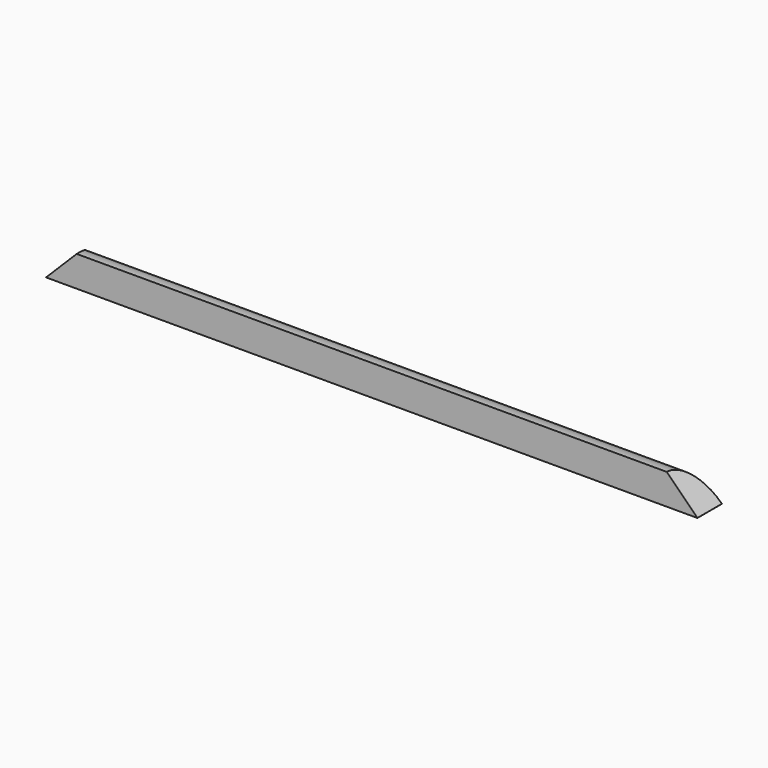
from build123d import *

# Parameters (mm, degrees)
SKETCH002_W     = 170
SKETCH002_H     = 8
PAD002_DEPTH    = 4
CHAMFER001_SIZE = 7.99
FILLET001_R     = 7.99


with BuildPart() as part:
    # Sketch002 → Pad002 (new body, symmetric)
    with BuildSketch(Plane.XZ):
        Rectangle(SKETCH002_W, SKETCH002_H)
    extrude(amount=PAD002_DEPTH, both=True)

    # Chamfer001
    chamfer001_edges = [part.edges().sort_by_distance(p)[0] for p in [
        (85, 0, 4),
        (-85, 0, 4),
    ]]
    chamfer(chamfer001_edges, length=CHAMFER001_SIZE)

    # Fillet001
    fillet001_edges = [part.edges().sort_by_distance(p)[0] for p in [
        (0, 4, 4),
    ]]
    fillet(fillet001_edges, radius=FILLET001_R)


solid = part.part
